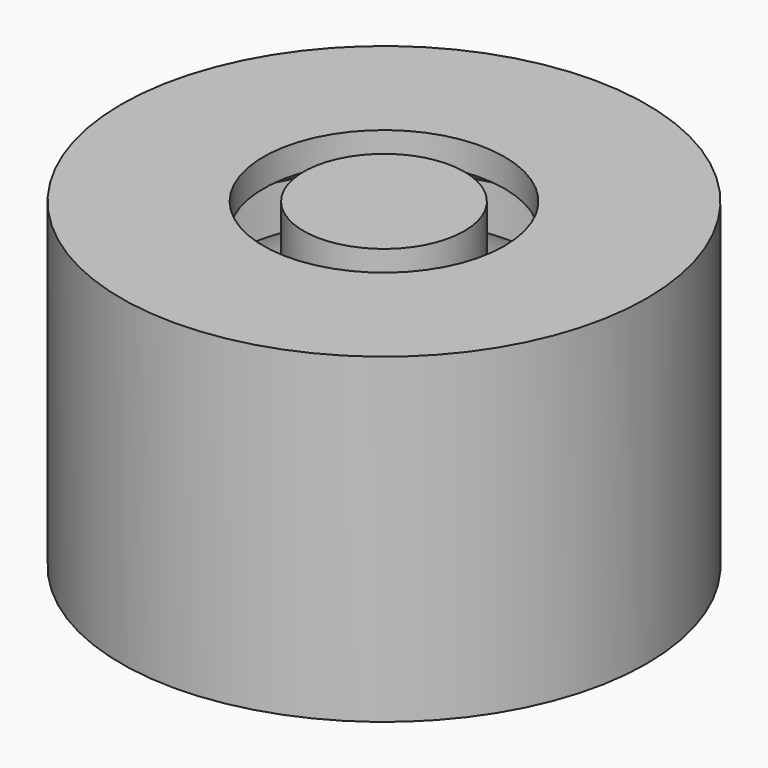
from build123d import *


with BuildPart() as f1:
    # F0 (on Front) → F1 (revolve)
    with BuildSketch(Plane.XZ):
        Polygon((0, 8), (0, 0), (2, 0), (2, 1.5), (2, 2.5), (2, 5.5), (2, 6.75), (2, 8), align=None)
        Polygon((2, 2.5), (2, 1.5), (4, 2.5), align=None)
        Polygon((4, 5.5), (2, 6.75), (2, 5.5), align=None)
        Polygon((2, 5.5), (2, 2.5), (4, 2.5), (4, 4), (4, 5.5), align=None)
    revolve(axis=Axis((0, 0, 4), (0, 0, 1)))


with BuildPart() as f3:
    # F2 (on Front) → F3 (revolve)
    with BuildSketch(Plane.XZ):
        Polygon((6.53603, 8), (3, 8), (3, 7.304248), (4.506015, 6.362989), (5, 6.054248), (5, 5.5), (5, 2.5), (5, 1.881966), (4.438204, 1.601068), (3, 0.881966), (3, 0), (6.53603, 0), align=None)
    revolve(axis=Axis((0, 0, 4), (0, 0, -1)))


solid = Compound([f1.part, f3.part])
